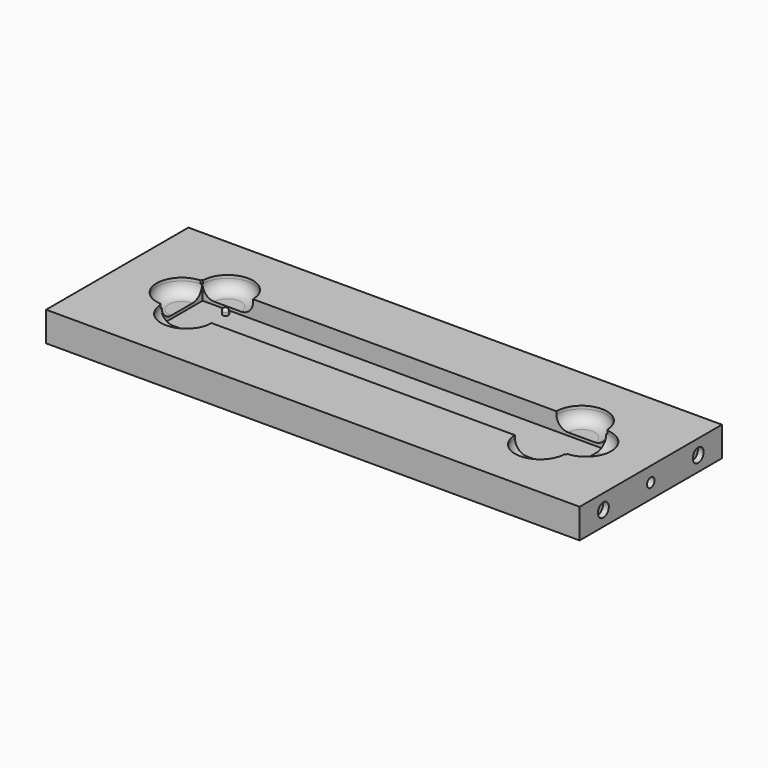
from build123d import *

# Parameters (mm, degrees)
F0_W      = 228.6
F0_H      = 76.2
F1_DEPTH  = 12.7
F2_W      = 173.19999904
F2_H      = 22.19999878
F3_DEPTH  = 7.62
F4_R      = 10.795
F5_DEPTH  = 6.35
F7_DEPTH  = 6.35
F8_R      = 2.0066
F9_DEPTH  = 9.652
F10_R     = 2.0066
F11_DEPTH = 9.652
F12_R     = 2.921
F13_DEPTH = 2.5019
F14_R     = 2.921
F15_DEPTH = 2.5019
F16_R     = 5.08
F18_DEPTH = 2.50000008
F19_R     = 1.2446
F21_DEPTH = 1.27


with BuildPart() as f1:
    # F0 (on Top) → F1 (new body)
    with BuildSketch(Plane.XY):
        Rectangle(F0_W, F0_H)
    extrude(amount=F1_DEPTH)

    # F2 (on face) → F3 (cut)
    with BuildSketch(Plane.XY.offset(12.7)):
        Rectangle(F2_W, F2_H)
    extrude(amount=-F3_DEPTH, mode=Mode.SUBTRACT)

    # F4 (on face) → F5 (cut)
    with BuildSketch(Plane.XY.offset(12.7)):
        with Locations((-86.59999952, 0)):
            Circle(F4_R)
        with Locations((86.59999952, 0)):
            Circle(F4_R)
    extrude(amount=-F5_DEPTH, mode=Mode.SUBTRACT)

    # F6 (on face) → F7 (cut)
    with BuildSketch(Plane.XY.offset(12.7)):
        with BuildLine():
            Line((-75.80499952, -11.09999939), (-86.59999952, -11.09999939))
            ThreePointArc((-86.59999952, -11.09999939), (-75.80499952, -21.89499939), (-65.00999952, -11.09999939))
            Line((-65.00999952, -11.09999939), (-75.80499952, -11.09999939))
        make_face()
        with BuildLine():
            ThreePointArc((86.59999952, 11.09999939), (75.80499952, 21.89499939), (65.00999952, 11.09999939))
            Line((65.00999952, 11.09999939), (75.80499952, 11.09999939))
            Line((75.80499952, 11.09999939), (86.59999952, 11.09999939))
        make_face()
        with BuildLine():
            Line((75.80499952, -11.09999939), (65.00999952, -11.09999939))
            ThreePointArc((65.00999952, -11.09999939), (75.80499952, -21.89499939), (86.59999952, -11.09999939))
            Line((86.59999952, -11.09999939), (75.80499952, -11.09999939))
        make_face()
        with BuildLine():
            ThreePointArc((-65.00999952, 11.09999939), (-75.80499952, 21.89499939), (-86.59999952, 11.09999939))
            Line((-86.59999952, 11.09999939), (-75.80499952, 11.09999939))
            Line((-75.80499952, 11.09999939), (-65.00999952, 11.09999939))
        make_face()
    extrude(amount=-F7_DEPTH, mode=Mode.SUBTRACT)

    # F8 (on face) → F9 (cut)
    with BuildSketch(Plane(origin=(-114.3, 0, 0), x_dir=(0, -1, 0), z_dir=(-1, 0, 0))):
        with Locations((0, 6.35)):
            Circle(F8_R)
    extrude(amount=-F9_DEPTH, mode=Mode.SUBTRACT)

    # F10 (on face) → F11 (cut)
    with BuildSketch(Plane.YZ.offset(114.3)):
        with Locations((0, 6.35)):
            Circle(F10_R)
    extrude(amount=-F11_DEPTH, mode=Mode.SUBTRACT)

    # F12 (on face) → F13 (cut)
    with BuildSketch(Plane(origin=(-114.3, 0, 0), x_dir=(0, -1, 0), z_dir=(-1, 0, 0))):
        with Locations((-25.4, 6.35)):
            Circle(F12_R)
        with Locations((25.4, 6.35)):
            Circle(F12_R)
    extrude(amount=-F13_DEPTH, mode=Mode.SUBTRACT)

    # F14 (on face) → F15 (cut)
    with BuildSketch(Plane.YZ.offset(114.3)):
        with Locations((-25.4, 6.35)):
            Circle(F14_R)
        with Locations((25.4, 6.35)):
            Circle(F14_R)
    extrude(amount=-F15_DEPTH, mode=Mode.SUBTRACT)

    # F16 (call 1 of 6: OpenCascade refuses the feature's edges together)
    f16_edges = [f1.edges().sort_by_distance(p)[0] for p in [
        (-97.395, 0, 6.35),
    ]]
    fillet(f16_edges, radius=F16_R)

    # F16#2 (call 2 of 6)
    f16_2_edges = [f1.edges().sort_by_distance(p)[0] for p in [
        (-75.805, 21.894999, 6.35),
    ]]
    fillet(f16_2_edges, radius=F16_R)

    # F16#3 (call 3 of 6)
    f16_3_edges = [f1.edges().sort_by_distance(p)[0] for p in [
        (-75.805, -21.894999, 6.35),
    ]]
    fillet(f16_3_edges, radius=F16_R)

    # F16#4 (call 4 of 6)
    f16_4_edges = [f1.edges().sort_by_distance(p)[0] for p in [
        (75.805, 21.894999, 6.35),
    ]]
    fillet(f16_4_edges, radius=F16_R)

    # F16#5 (call 5 of 6)
    f16_5_edges = [f1.edges().sort_by_distance(p)[0] for p in [
        (97.395, 0, 6.35),
    ]]
    fillet(f16_5_edges, radius=F16_R)

    # F16#6 (call 6 of 6)
    f16_6_edges = [f1.edges().sort_by_distance(p)[0] for p in [
        (75.805, -21.894999, 6.35),
    ]]
    fillet(f16_6_edges, radius=F16_R)

    # F17 (on face) → F18 (join)
    with BuildSketch(Plane.XY.offset(5.08)):
        with BuildLine():
            Line((-74.5000034, 8.25000001), (-74.5000034, 9.50000005))
            ThreePointArc((-74.5000034, 9.50000005), (-75.3838869048, 7.3661165052), (-73.25000336, 8.25000001))
            Line((-73.25000336, 8.25000001), (-74.5000034, 8.25000001))
        make_face()
        with BuildLine():
            ThreePointArc((-73.25000336, 8.25000001), (-73.6161198952, 9.1338835148), (-74.5000034, 9.50000005))
            Line((-74.5000034, 9.50000005), (-74.5000034, 8.25000001))
            Line((-74.5000034, 8.25000001), (-73.25000336, 8.25000001))
        make_face()
    extrude(amount=F18_DEPTH)

    # F19
    f19_edges = [f1.edges().sort_by_distance(p)[0] for p in [
        (-75.750003, 8.25, 7.58),
    ]]
    fillet(f19_edges, radius=F19_R)

    # F20 (on face) → F21 (cut)
    with BuildSketch(Plane.XY.offset(12.7)):
        with BuildLine():
            ThreePointArc((-86.59999952, 11.09999939), (-86.5987382997, 11.2650089547), (-86.5949549334, 11.429979962))
            ThreePointArc((-86.5949549334, 11.429979962), (-87.0538068899, 11.2391664903), (-87.2347248066, 10.7763235294))
            ThreePointArc((-87.2347248066, 10.7763235294), (-86.91749952, 10.7903298722), (-86.59999952, 10.795))
            Line((-86.59999952, 10.795), (-86.59999952, 11.09999939))
        make_face()
        with BuildLine():
            ThreePointArc((-86.59999952, -10.795), (-86.91749952, -10.7903298722), (-87.2347248066, -10.7763235294))
            ThreePointArc((-87.2347248066, -10.7763235294), (-87.0538068899, -11.2391664903), (-86.5949549334, -11.429979962))
            ThreePointArc((-86.5949549334, -11.429979962), (-86.5987382997, -11.2650089547), (-86.59999952, -11.09999939))
            Line((-86.59999952, -11.09999939), (-86.59999952, -10.795))
        make_face()
        with BuildLine():
            ThreePointArc((87.23499952, 10.795), (87.047225239, 11.2457928086), (86.5949549334, 11.429979962))
            ThreePointArc((86.5949549334, 11.429979962), (86.5987382997, 11.2650089547), (86.59999952, 11.09999939))
            Line((86.59999952, 11.09999939), (86.59999952, 10.795))
            ThreePointArc((86.59999952, 10.795), (86.91749952, 10.7903298722), (87.2347248066, 10.7763235294))
            ThreePointArc((87.2347248066, 10.7763235294), (87.2349308379, 10.7856607546), (87.23499952, 10.795))
        make_face()
        with BuildLine():
            ThreePointArc((87.23499952, -10.795), (87.2349308379, -10.7856607546), (87.2347248066, -10.7763235294))
            ThreePointArc((87.2347248066, -10.7763235294), (86.91749952, -10.7903298722), (86.59999952, -10.795))
            Line((86.59999952, -10.795), (86.59999952, -11.09999939))
            ThreePointArc((86.59999952, -11.09999939), (86.5987382997, -11.2650089547), (86.5949549334, -11.429979962))
            ThreePointArc((86.5949549334, -11.429979962), (87.047225239, -11.2457928086), (87.23499952, -10.795))
        make_face()
    extrude(amount=-F21_DEPTH, mode=Mode.SUBTRACT)


solid = f1.part
